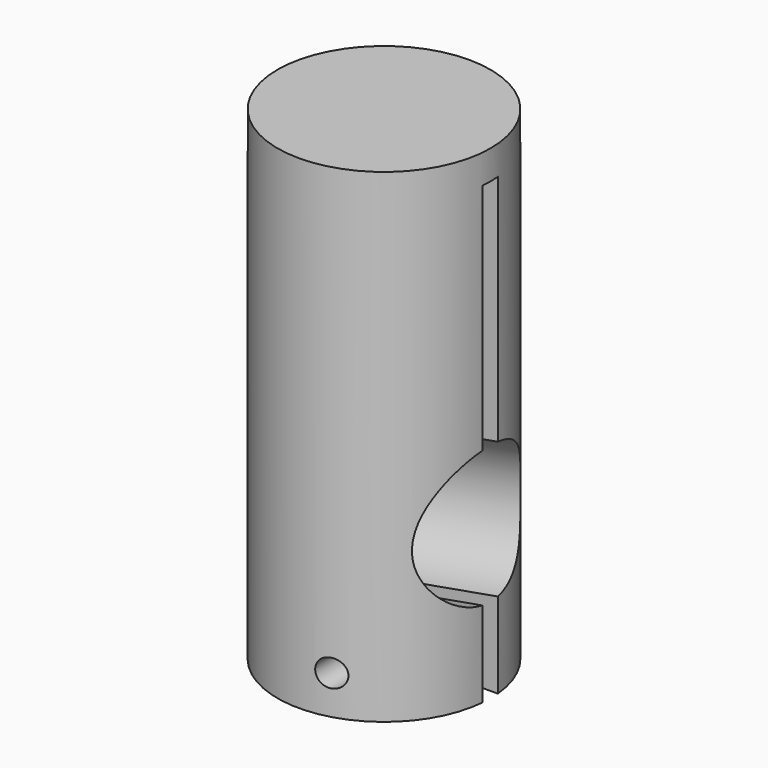
from build123d import *

# Parameters (mm, degrees)
CYLINDER004_R               = 3
CYLINDER004_DEPTH           = 28
CYLINDER003_R               = 2
CYLINDER003_DEPTH           = 28
CYLINDER002_R               = 1.4
CYLINDER002_DEPTH           = 28
BOX_W                       = 100
BOX_H                       = 2
BOX_DEPTH                   = 100
CYLINDER001_R               = 7
CYLINDER001_DEPTH           = 100
CYLINDER001_PLACEMENT_ANGLE = 80
CYLINDER_R                  = 11
CYLINDER_DEPTH              = 50


with BuildPart() as cylinder004:
    # Cylinder004 → Cylinder004 (new body)
    with BuildSketch(Plane(origin=(3, 37, 4), x_dir=(1, 0, 0), z_dir=(0, -1, 0))):
        Circle(CYLINDER004_R)
    extrude(amount=CYLINDER004_DEPTH)


with BuildPart() as cylinder003:
    # Cylinder003 → Cylinder003 (new body)
    with BuildSketch(Plane(origin=(3, 28, 4), x_dir=(1, 0, 0), z_dir=(0, -1, 0))):
        Circle(CYLINDER003_R)
    extrude(amount=CYLINDER003_DEPTH)


with BuildPart() as cylinder002:
    # Cylinder002 → Cylinder002 (new body)
    with BuildSketch(Plane(origin=(3, 13, 4), x_dir=(1, 0, 0), z_dir=(0, -1, 0))):
        Circle(CYLINDER002_R)
    extrude(amount=CYLINDER002_DEPTH)


with BuildPart() as cube:
    # Box → Box (new body)
    with BuildSketch(Plane(origin=(-17, -1, -53), x_dir=(1, 0, 0), z_dir=(0, 0, 1))):
        with Locations((50, 1)):
            Rectangle(BOX_W, BOX_H)
    extrude(amount=BOX_DEPTH)


with BuildPart() as cylinder001:
    # Cylinder001 → Cylinder001 (new body)
    with BuildSketch(Plane.XY):
        Circle(CYLINDER001_R)
    extrude(amount=CYLINDER001_DEPTH)


with BuildPart() as cylinder001_1:
    # Cylinder001 placement: moved
    add(cylinder001.part.moved(Location((-28, 0, 9))).rotate(Axis((-28, 0, 9), (0, 1, 0)), CYLINDER001_PLACEMENT_ANGLE))


with BuildPart() as cut004:
    # Cylinder → Cylinder (new body)
    with BuildSketch(Plane.XY):
        Circle(CYLINDER_R)
    extrude(amount=CYLINDER_DEPTH)

    # Cut: cut Cylinder001
    add(cylinder001_1.part, mode=Mode.SUBTRACT)

    # Cut001: cut Cube
    add(cube.part, mode=Mode.SUBTRACT)

    # Cut002: cut Cylinder002
    add(cylinder002.part, mode=Mode.SUBTRACT)

    # Cut003: cut Cylinder003
    add(cylinder003.part, mode=Mode.SUBTRACT)

    # Cut004: cut Cylinder004
    add(cylinder004.part, mode=Mode.SUBTRACT)


solid = cut004.part
